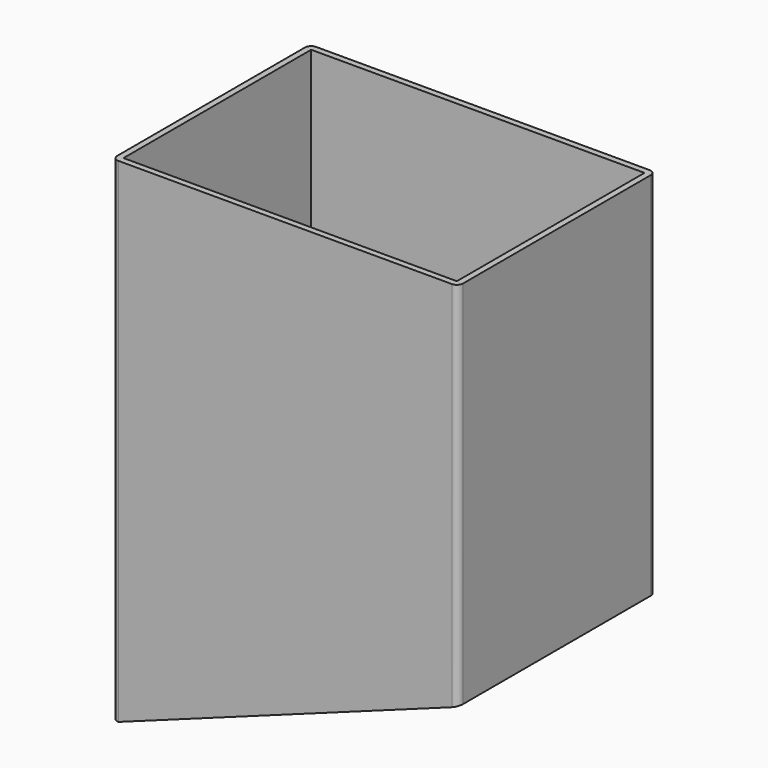
from build123d import *

# Parameters (mm, degrees)
F0_W     = 280
F0_H     = 200
F0_R     = 12.5
F1_DEPTH = 400
F2_W     = 270
F2_H     = 190
F3_DEPTH = 300
F4_R     = 30
F5_DEPTH = 50
F6_R     = 5
F8_DEPTH = 280


with BuildPart() as f1:
    # F0 (on Top) → F1 (new body)
    with BuildSketch(Plane.XY):
        Rectangle(F0_W, F0_H)
        with Locations((-107.5, 0)):
            Circle(F0_R, mode=Mode.SUBTRACT)
    extrude(amount=F1_DEPTH)

    # F2 (on face) → F3 (cut)
    with BuildSketch(Plane.XY.offset(400)):
        Rectangle(F2_W, F2_H)
    extrude(amount=-F3_DEPTH, mode=Mode.SUBTRACT)

    # F4 (on face) → F5 (cut)
    with BuildSketch(Plane(origin=(-140, 0, 0), x_dir=(0, -1, 0), z_dir=(-1, 0, 0))):
        Circle(F4_R)
    extrude(amount=-F5_DEPTH, mode=Mode.SUBTRACT)

    # F6
    f6_edges = [f1.edges().sort_by_distance(p)[0] for p in [
        (-140, -100, 200),
        (-140, 100, 200),
        (140, 100, 200),
        (140, -100, 200),
    ]]
    fillet(f6_edges, radius=F6_R)

    # F7 (on face) → F8 (cut)
    with BuildSketch(Plane.XZ.offset(100)):
        Polygon((141.267359, 100.553095), (-135, 0), (141.267359, 0), align=None)
    extrude(amount=-F8_DEPTH, mode=Mode.SUBTRACT)


solid = f1.part
